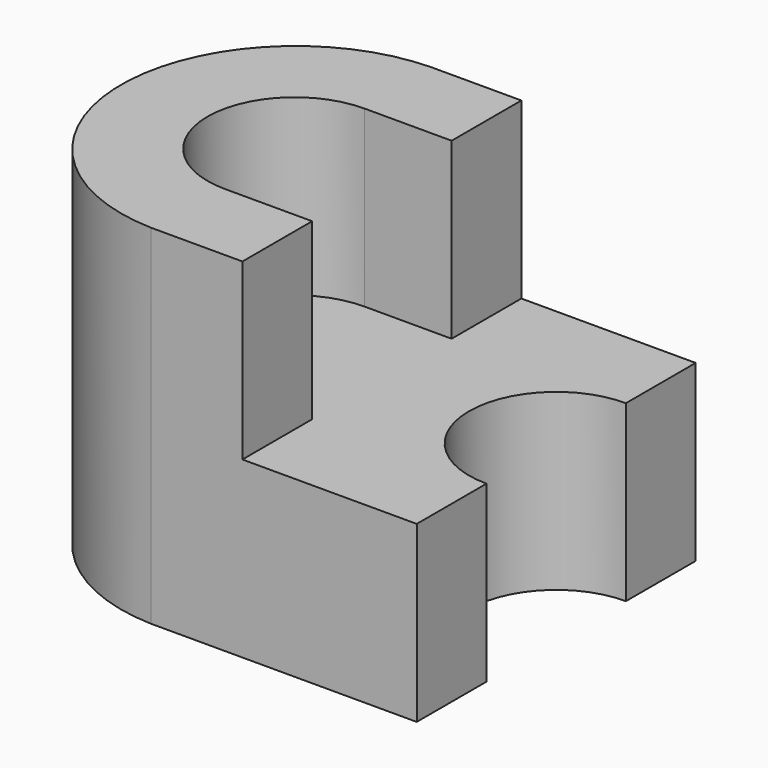
from build123d import *

# Parameters (mm, degrees)
F1_DEPTH = 40
F3_DEPTH = 40
F4_W     = 10
F4_H     = 20
F5_DEPTH = 20
F7_DEPTH = 20
F9_DEPTH = 20


with BuildPart() as f1:
    # F0 (on Front) → F1 (new body)
    with BuildSketch(Plane.XZ):
        Polygon((0, 40), (0, 0), (50, 0), (50, 20), (30, 20), (30, 40), align=None)
    extrude(amount=F1_DEPTH)

    # F2 (on face) → F3 (cut)
    with BuildSketch(Plane.XY.offset(40)):
        with BuildLine():
            ThreePointArc((19.502008, -40), (0.089083, -19.972422), (19.55875, 0))
            Line((19.55875, 0), (0, 0))
            Line((0, 0), (0, -40))
            Line((0, -40), (19.502008, -40))
        make_face()
    extrude(amount=-F3_DEPTH, mode=Mode.SUBTRACT)

    # F4 (on face) → F5 (cut)
    with BuildSketch(Plane.XY.offset(40)):
        with Locations((25, -20)):
            Rectangle(F4_W, F4_H)
    extrude(amount=-F5_DEPTH, mode=Mode.SUBTRACT)

    # F6 (on face) → F7 (cut)
    with BuildSketch(Plane.XY.offset(40)):
        with BuildLine():
            Line((20, -30), (20, -10))
            ThreePointArc((20, -10), (10, -20), (20, -30))
        make_face()
    extrude(amount=-F7_DEPTH, mode=Mode.SUBTRACT)

    # F8 (on face) → F9 (cut)
    with BuildSketch(Plane.XY.offset(20)):
        with BuildLine():
            Line((50, -30), (50, -10))
            ThreePointArc((50, -10), (40, -20), (50, -30))
        make_face()
    extrude(amount=-F9_DEPTH, mode=Mode.SUBTRACT)


solid = f1.part
